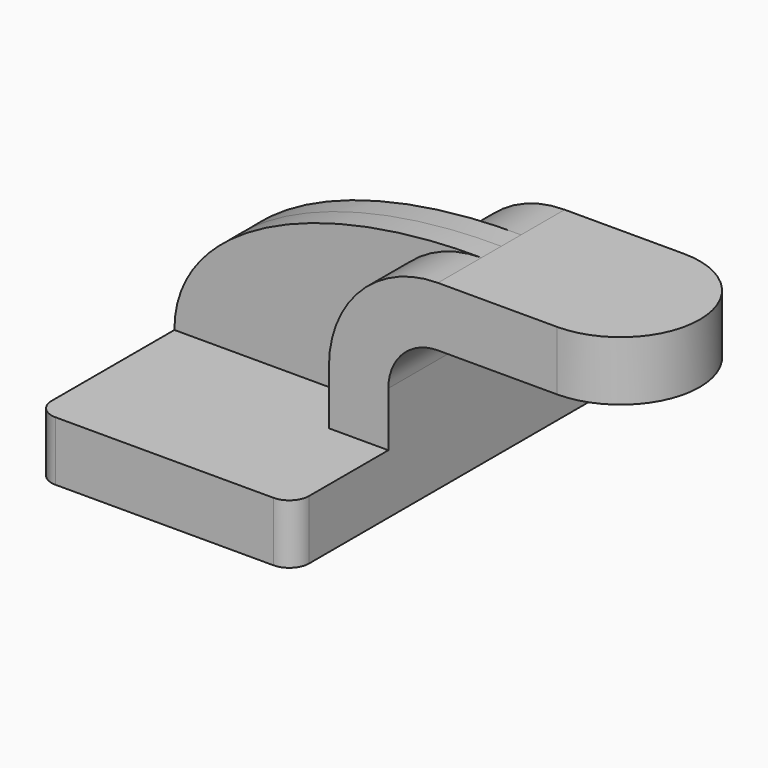
from build123d import *

# Parameters (mm, degrees)
F1_DEPTH = 63.5
F0_W     = 35.0718458849
F0_H     = 19.05
F2_DEPTH = 25.4
F3_DEPTH = 7.9375
F4_W     = 25.4
F4_H     = 19.05
F6_R     = 6.35


with BuildPart() as f1:
    # F0 (on Front) → F1 (new body, symmetric)
    with BuildSketch(Plane.XZ):
        Polygon((41.275, -9.525), (41.275, 9.525), (22.225, 9.525), (-41.275, 9.525), (-41.275, -9.525), align=None)
    extrude(amount=F1_DEPTH, both=True)

    # F0 (on Front) → F2 (join, symmetric)
    with BuildSketch(Plane.XZ):
        with BuildLine():
            Line((22.225, 9.525), (41.275, 9.525))
            Line((41.275, 9.525), (41.275, 27.0002))
            ThreePointArc((41.275, 27.0002), (45.9246798487, 38.2255201513), (57.15, 42.8752))
            Line((57.15, 42.8752), (60.325, 42.8752))
            Line((60.325, 42.8752), (60.325, 61.9252))
            Line((60.325, 61.9252), (57.15, 61.9252))
            ThreePointArc((57.15, 61.9252), (32.4542956671, 51.6959043329), (22.225, 27.0002))
            Line((22.225, 27.0002), (22.225, 9.525))
        make_face()
        with Locations((77.8609229425, 52.4002)):
            Rectangle(F0_W, F0_H)
    extrude(amount=F2_DEPTH, both=True)

    # F0 (on Front) → F3 (join, symmetric)
    with BuildSketch(Plane.XZ):
        with BuildLine():
            Line((-41.275, 9.525), (22.225, 9.525))
            Line((22.225, 9.525), (22.225, 27.0002))
            ThreePointArc((22.225, 27.0002), (32.4542956671, 51.6959043329), (57.15, 61.9252))
            add(Edge.make_bspline(
                [(-41.275, 9.525), (-41.3783525219, 40.9650179304), (3.1078325119, 62.4104812741), (57.15, 61.9252)],
                knots=[0, 0, 0, 0, 111.5045361635, 111.5045361635, 111.5045361635, 111.5045361635], degree=3))
        make_face()
    extrude(amount=F3_DEPTH, both=True)

    # F4 (on face) → F5 (revolve)
    with BuildSketch(Plane.YZ.offset(95.3968458849)):
        with Locations((-12.7, 52.4002)):
            Rectangle(F4_W, F4_H)
    revolve(axis=Axis((95.3968458849, 0, 52.4002), (0, 0, -1)))

    # F6
    f6_edges = [f1.edges().sort_by_distance(p)[0] for p in [
        (41.275, -63.5, 0),
        (41.275, 63.5, 0),
        (-41.275, 63.5, 0),
        (-41.275, -63.5, 0),
    ]]
    fillet(f6_edges, radius=F6_R)


solid = f1.part
